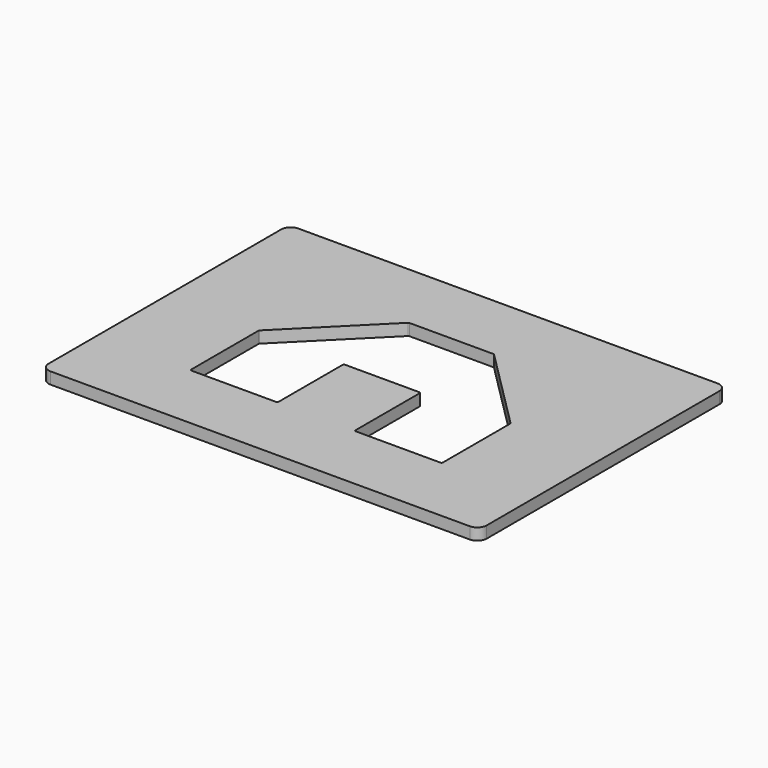
from build123d import *

# Parameters (mm, degrees)
F1_DEPTH = 6.35
F3_DEPTH = 25.4
F5_DEPTH = 25.4


with BuildPart() as f1:
    # F0 (on Top) → F1 (new body)
    with BuildSketch(Plane.XY):
        with BuildLine():
            Line((113.9825, 84.1375), (-113.9825, 84.1375))
            ThreePointArc((-113.9825, 84.1375), (-117.574602, 82.649602), (-119.0625, 79.0575))
            Line((-119.0625, 79.0575), (-119.0625, -79.0575))
            ThreePointArc((-119.0625, -79.0575), (-117.574602, -82.649602), (-113.9825, -84.1375))
            Line((-113.9825, -84.1375), (113.9825, -84.1375))
            ThreePointArc((113.9825, -84.1375), (117.574602, -82.649602), (119.0625, -79.0575))
            Line((119.0625, -79.0575), (119.0625, 79.0575))
            ThreePointArc((119.0625, 79.0575), (117.574602, 82.649602), (113.9825, 84.1375))
        make_face()
    extrude(amount=F1_DEPTH)

    # F2 (on face) → F3 (cut)
    with BuildSketch(Plane.XY.offset(6.35)):
        Polygon((22.606, 44.54207), (0, 44.54207), (-22.606, 44.54207), (-67.14807, 0), (-67.14807, -44.958), (-22.19007, -44.958), (-22.19007, 0), (0, 0), (22.19007, 0), (22.19007, -44.958), (67.14807, -44.958), (67.14807, 0), align=None)
    extrude(amount=-F3_DEPTH, mode=Mode.SUBTRACT)

    # F4 (on face) → F5 (cut)
    with BuildSketch(Plane.XY.offset(6.35)):
        with BuildLine():
            ThreePointArc((-22.805899, 45.81207), (-23.107224, 45.752133), (-23.362675, 45.581446))
            Line((-23.362675, 45.581446), (-68.187446, 0.756675))
            ThreePointArc((-68.187446, 0.756675), (-68.358133, 0.501224), (-68.41807, 0.199899))
            Line((-68.41807, 0.199899), (-68.41807, -45.4406))
            ThreePointArc((-68.41807, -45.4406), (-68.187446, -45.997376), (-67.63067, -46.228))
            Line((-67.63067, -46.228), (-21.70747, -46.228))
            ThreePointArc((-21.70747, -46.228), (-21.150694, -45.997376), (-20.92007, -45.4406))
            Line((-20.92007, -45.4406), (-20.92007, -2.0574))
            ThreePointArc((-20.92007, -2.0574), (-20.689446, -1.500624), (-20.13267, -1.27))
            Line((-20.13267, -1.27), (20.13267, -1.27))
            ThreePointArc((20.13267, -1.27), (20.689446, -1.500624), (20.92007, -2.0574))
            Line((20.92007, -2.0574), (20.92007, -45.4406))
            ThreePointArc((20.92007, -45.4406), (21.150694, -45.997376), (21.70747, -46.228))
            Line((21.70747, -46.228), (67.63067, -46.228))
            ThreePointArc((67.63067, -46.228), (68.187446, -45.997376), (68.41807, -45.4406))
            Line((68.41807, -45.4406), (68.41807, 0.199899))
            ThreePointArc((68.41807, 0.199899), (68.358133, 0.501224), (68.187446, 0.756675))
            Line((68.187446, 0.756675), (23.362675, 45.581446))
            ThreePointArc((23.362675, 45.581446), (23.107224, 45.752133), (22.805899, 45.81207))
            Line((22.805899, 45.81207), (-22.805899, 45.81207))
        make_face()
    extrude(amount=-F5_DEPTH, mode=Mode.SUBTRACT)


solid = f1.part
